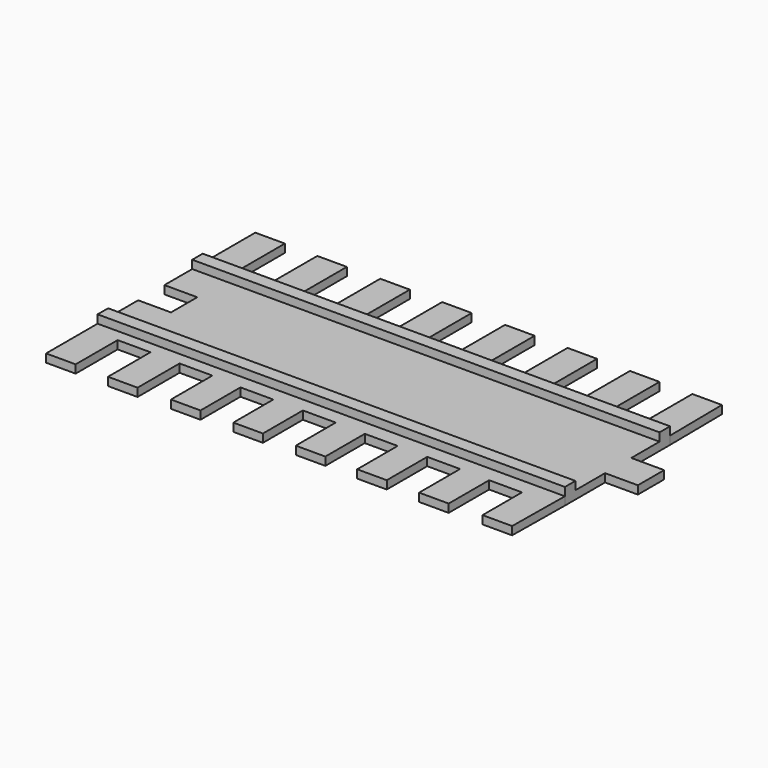
from build123d import *

# Parameters (mm, degrees)
F1_DEPTH = 3.175
F0_W     = 180.639096
F0_H     = 5.08
F2_DEPTH = 6.35
F3_DEPTH = 3.175
F4_DEPTH = 3.175
F5_DEPTH = 20.32


with BuildPart() as f1:
    # F0 (on Top) → F1 (new body)
    with BuildSketch(Plane.XY):
        Polygon((185.450711, 51.289835), (172.750711, 51.289835), (172.750711, 38.589835), (185.450711, 38.589835), (185.450711, 45.141608), align=None)
        Polygon((172.750711, 64.923577), (-7.888385, 64.923577), (-7.888385, 51.491608), (4.811615, 51.491608), (4.811615, 45.141608), (4.811615, 38.791608), (-7.888385, 38.791608), (-7.888385, 24.283577), (172.750711, 24.283577), (172.750711, 38.589835), (172.750711, 51.289835), align=None)
    extrude(amount=F1_DEPTH)

    # F0 (on Top) → F2 (join)
    with BuildSketch(Plane.XY):
        with Locations((82.431163, 21.743577)):
            Rectangle(F0_W, F0_H)
        with Locations((82.431163, 67.463577)):
            Rectangle(F0_W, F0_H)
    extrude(amount=F2_DEPTH)

    # F0 (on Top) → F3 (join)
    with BuildSketch(Plane.XY):
        Polygon((-7.888385, 95.403577), (-7.888385, 70.003577), (172.750711, 70.003577), (172.451615, 95.446534), (161.021615, 95.446534), (161.021615, 72.725058), (148.321615, 72.725058), (148.321615, 95.446534), (136.891615, 95.446534), (136.891615, 73.213689), (124.191615, 73.213689), (124.191615, 95.446534), (112.761615, 95.446534), (112.761615, 73.213689), (100.061615, 73.213689), (100.061615, 95.446534), (88.631615, 95.446534), (88.631615, 74.190959), (75.931615, 74.190959), (75.931615, 95.202222), (64.501615, 95.202222), (64.501615, 73.458008), (51.801615, 73.458008), (51.801615, 95.446534), (40.371615, 95.446534), (40.371615, 73.458008), (27.671615, 73.458008), (27.671615, 95.202215), (16.241615, 95.202215), (16.241615, 72.96937), (3.541615, 72.96937), (3.541615, 95.403577), align=None)
        Polygon((172.750711, 19.203577), (-7.888385, 19.203577), (-7.888385, -5.6889), (3.541615, -5.6889), (3.541615, 14.589407), (16.241615, 14.589407), (16.241615, -5.933219), (27.671615, -5.933219), (27.671615, 14.345091), (40.371615, 14.345091), (40.371615, -5.6889), (51.801615, -5.6889), (51.801615, 13.612141), (64.501615, 13.612141), (64.501615, -5.6889), (75.931615, -5.6889), (75.931615, 13.612141), (88.631615, 13.612141), (88.631615, -5.6889), (100.061615, -5.6889), (100.061615, 13.367824), (112.761615, 13.367824), (112.761615, -6.177533), (124.191615, -6.177533), (124.191615, 13.367824), (136.891615, 13.367824), (136.891615, -6.421852), (148.321615, -6.421852), (148.321615, 13.123516), (161.021615, 13.123516), (161.021615, -5.933208), (172.451615, -5.933208), align=None)
    extrude(amount=F3_DEPTH)

    # F0 (on Top) → F4 (join)
    with BuildSketch(Plane.XY):
        Polygon((-7.888385, 95.403577), (-7.888385, 70.003577), (172.750711, 70.003577), (172.451615, 95.446534), (161.021615, 95.446534), (161.021615, 72.725058), (148.321615, 72.725058), (148.321615, 95.446534), (136.891615, 95.446534), (136.891615, 73.213689), (124.191615, 73.213689), (124.191615, 95.446534), (112.761615, 95.446534), (112.761615, 73.213689), (100.061615, 73.213689), (100.061615, 95.446534), (88.631615, 95.446534), (88.631615, 74.190959), (75.931615, 74.190959), (75.931615, 95.202222), (64.501615, 95.202222), (64.501615, 73.458008), (51.801615, 73.458008), (51.801615, 95.446534), (40.371615, 95.446534), (40.371615, 73.458008), (27.671615, 73.458008), (27.671615, 95.202215), (16.241615, 95.202215), (16.241615, 72.96937), (3.541615, 72.96937), (3.541615, 95.403577), align=None)
        with Locations((82.431163, 67.463577)):
            Rectangle(F0_W, F0_H)
        Polygon((172.750711, 64.923577), (-7.888385, 64.923577), (-7.888385, 51.491608), (4.811615, 51.491608), (4.811615, 45.141608), (4.811615, 38.791608), (-7.888385, 38.791608), (-7.888385, 24.283577), (172.750711, 24.283577), (172.750711, 38.589835), (172.750711, 51.289835), align=None)
        Polygon((4.811615, 51.491608), (-7.888385, 51.491608), (-7.888385, 38.791608), (4.811615, 38.791608), (4.811615, 45.141608), align=None)
        Polygon((185.450711, 51.289835), (172.750711, 51.289835), (172.750711, 38.589835), (185.450711, 38.589835), (185.450711, 45.141608), align=None)
        with Locations((82.431163, 21.743577)):
            Rectangle(F0_W, F0_H)
        Polygon((172.750711, 19.203577), (-7.888385, 19.203577), (-7.888385, -5.6889), (3.541615, -5.6889), (3.541615, 14.589407), (16.241615, 14.589407), (16.241615, -5.933219), (27.671615, -5.933219), (27.671615, 14.345091), (40.371615, 14.345091), (40.371615, -5.6889), (51.801615, -5.6889), (51.801615, 13.612141), (64.501615, 13.612141), (64.501615, -5.6889), (75.931615, -5.6889), (75.931615, 13.612141), (88.631615, 13.612141), (88.631615, -5.6889), (100.061615, -5.6889), (100.061615, 13.367824), (112.761615, 13.367824), (112.761615, -6.177533), (124.191615, -6.177533), (124.191615, 13.367824), (136.891615, 13.367824), (136.891615, -6.421852), (148.321615, -6.421852), (148.321615, 13.123516), (161.021615, 13.123516), (161.021615, -5.933208), (172.451615, -5.933208), align=None)
    extrude(amount=F4_DEPTH)

    # F0 (on Top) → F5 (cut)
    with BuildSketch(Plane.XY):
        Polygon((4.811615, 51.491608), (-7.888385, 51.491608), (-7.888385, 38.791608), (4.811615, 38.791608), (4.811615, 45.141608), align=None)
    extrude(amount=F5_DEPTH, mode=Mode.SUBTRACT)


solid = f1.part
